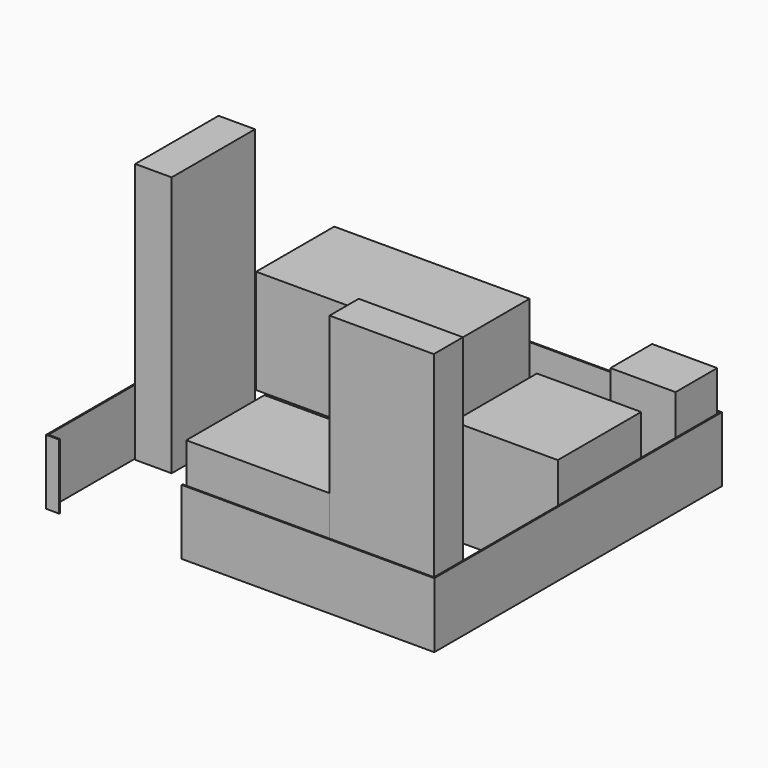
from build123d import *

# Parameters (mm, degrees)
F1_DEPTH = 500
F0_W     = 280
F0_H     = 800
F2_DEPTH = 2000
F0_W_2   = 760
F0_H_2   = 200
F3_DEPTH = 500
F4_DEPTH = 800
F5_DEPTH = 800
F0_W_3   = 800
F0_H_3   = 280
F6_DEPTH = 2000
F7_DEPTH = 800
F0_W_4   = 500
F0_H_4   = 400
F8_DEPTH = 800


with BuildPart() as f1:
    # F0 (on Top) → F1 (new body)
    with BuildSketch(Plane.XY):
        Polygon((-1490, -750), (-1490, 1990), (1470, 1990), (1470, -750), (-460, -750), (-460, -760), (1480, -760), (1480, 2000), (-1500, 2000), (-1500, -760), (-1400, -760), (-1400, -750), align=None)
    extrude(amount=F1_DEPTH)


with BuildPart() as f2:
    # F0 (on Top) → F2 (new body)
    with BuildSketch(Plane.XY):
        with Locations((-1340, 470)):
            Rectangle(F0_W, F0_H)
    extrude(amount=F2_DEPTH)


with BuildPart() as f3:
    # F0 (on Top) → F3 (new body)
    with BuildSketch(Plane.XY):
        with Locations((-1020, 1880)):
            Rectangle(F0_W_2, F0_H_2)
    extrude(amount=F3_DEPTH)


with BuildPart() as f4:
    # F0 (on Top) → F4 (new body)
    with BuildSketch(Plane.XY):
        with Locations((-1020, 1880)):
            Rectangle(F0_W_2, F0_H_2)
        Polygon((-1400, 1780), (-1400, 1980), (-1480, 1980), (-1480, 1230), (20, 1230), (20, 1980), (-640, 1980), (-640, 1780), align=None)
        with Locations((-1020, 1880)):
            Rectangle(F0_W_2, F0_H_2)
    extrude(amount=F4_DEPTH)


with BuildPart() as f5:
    # F0 (on Top) → F5 (new body)
    with BuildSketch(Plane.XY):
        Polygon((660, -740), (660, -460), (660, 10), (-440, 10), (-440, -740), align=None)
    extrude(amount=F5_DEPTH)


with BuildPart() as f6:
    # F0 (on Top) → F6 (new body)
    with BuildSketch(Plane.XY):
        with Locations((1060, -600)):
            Rectangle(F0_W_3, F0_H_3)
    extrude(amount=F6_DEPTH)


with BuildPart() as f7:
    # F0 (on Top) → F7 (new body)
    with BuildSketch(Plane.XY):
        with Locations((1060, 850)):
            Rectangle(F0_W_3, F0_H)
    extrude(amount=F7_DEPTH)


with BuildPart() as f8:
    # F0 (on Top) → F8 (new body)
    with BuildSketch(Plane.XY):
        with Locations((1210, 1780)):
            Rectangle(F0_W_4, F0_H_4)
    extrude(amount=F8_DEPTH)


solid = Compound([f1.part, f2.part, f3.part, f4.part, f5.part, f6.part, f7.part, f8.part])
